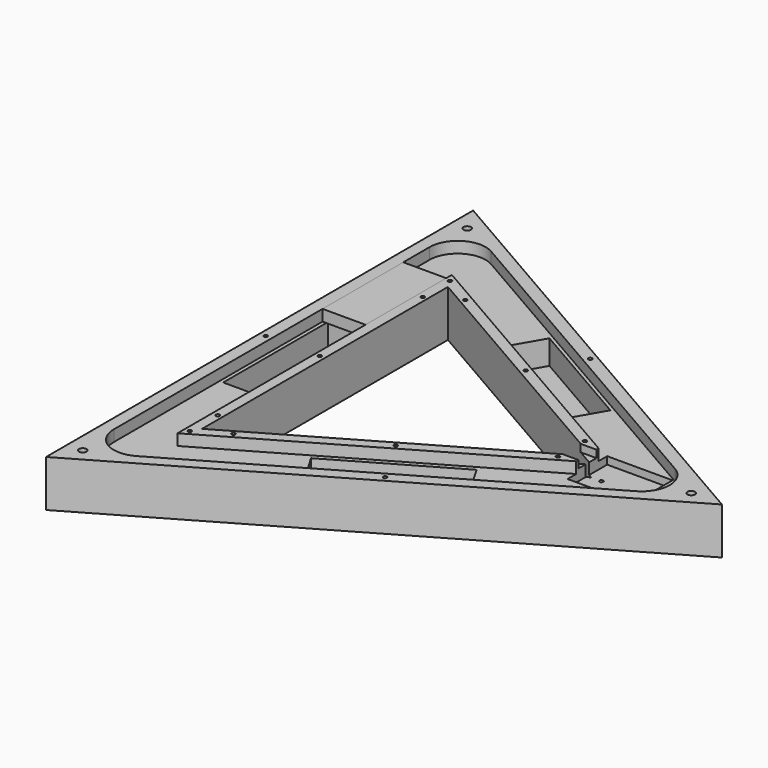
from build123d import *

# Parameters (mm, degrees)
BOX005_W               = 23
BOX005_H               = 54
BOX005_DEPTH           = 6
PRISM003_DEPTH         = 6
PRISM002_DEPTH         = 6
BOX004_W               = 10
BOX004_H               = 12
BOX004_DEPTH           = 4
BOX003_W               = 35
BOX003_H               = 26.5
BOX003_DEPTH           = 10
BOX002_W               = 70
BOX002_H               = 19
BOX002_DEPTH           = 19
BOX002_PLACEMENT_ANGLE = 30
BOX001_W               = 70
BOX001_H               = 19
BOX001_DEPTH           = 19
BOX001_PLACEMENT_ANGLE = 90
BOX_W                  = 70
BOX_H                  = 19
BOX_DEPTH              = 19
BOX_PLACEMENT_ANGLE    = 30
PRISM001_DEPTH         = 25
PRISM_DEPTH            = 25
FILLET_R               = 15
SKETCH001_R            = 2
POCKET_DEPTH           = 782.777352
POLARPATTERN_COUNT     = 3
POCKET001_DEPTH        = 3
SKETCH002_R            = 1
POCKET002_DEPTH        = 782.777352
POLARPATTERN001_COUNT  = 3
SKETCH004_R            = 1
POCKET003_DEPTH        = 782.777352
POLARPATTERN002_COUNT  = 3
POLARPATTERN003_COUNT  = 3
SKETCH005_R            = 1
POCKET004_DEPTH        = 782.777352
POLARPATTERN004_COUNT  = 3
POCKET005_DEPTH        = 22.001


with BuildPart() as box005:
    # Box005 → Box005 (new body)
    with BuildSketch(Plane(origin=(-76, 34, 13), x_dir=(1, 0, 0), z_dir=(0, 0, 1))):
        with Locations((11.5, 27)):
            Rectangle(BOX005_W, BOX005_H)
    extrude(amount=BOX005_DEPTH)


with BuildPart() as prism003:
    # Prism003 → Prism003 (new body)
    with BuildSketch(Plane.XY.offset(13)):
        Polygon((106, 0), (-53, 91.798693), (-53, -91.798693), align=None)
    extrude(amount=PRISM003_DEPTH)


with BuildPart() as cut006:
    # Prism002 → Prism002 (new body)
    with BuildSketch(Plane.XY.offset(13)):
        Polygon((152, 0), (-76, 131.635861), (-76, -131.635861), align=None)
    extrude(amount=PRISM002_DEPTH)

    # Cut006: cut Prism003
    add(prism003.part, mode=Mode.SUBTRACT)


with BuildPart() as box004:
    # Box004 → Box004 (new body)
    with BuildSketch(Plane(origin=(84, -6, 15), x_dir=(1, 0, 0), z_dir=(0, 0, 1))):
        with Locations((5, 6)):
            Rectangle(BOX004_W, BOX004_H)
    extrude(amount=BOX004_DEPTH)


with BuildPart() as box003:
    # Box003 → Box003 (new body)
    with BuildSketch(Plane(origin=(93, -13.3, 9), x_dir=(1, 0, 0), z_dir=(0, 0, 1))):
        with Locations((17.5, 13.25)):
            Rectangle(BOX003_W, BOX003_H)
    extrude(amount=BOX003_DEPTH)


with BuildPart() as box002:
    # Box002 → Box002 (new body)
    with BuildSketch(Plane.XY):
        with Locations((35, 9.5)):
            Rectangle(BOX002_W, BOX002_H)
    extrude(amount=BOX002_DEPTH)


with BuildPart() as box002_1:
    # Box002 placement: moved
    add(box002.part.moved(Location((7, -82, 0))).rotate(Axis((7, -82, 0), (0, 0, 1)), BOX002_PLACEMENT_ANGLE))


with BuildPart() as box001:
    # Box001 → Box001 (new body)
    with BuildSketch(Plane.XY):
        with Locations((35, 9.5)):
            Rectangle(BOX001_W, BOX001_H)
    extrude(amount=BOX001_DEPTH)


with BuildPart() as box001_1:
    # Box001 placement: moved
    add(box001.part.moved(Location((-55, -35, 0))).rotate(Axis((-55, -35, 0), (0, 0, 1)), BOX001_PLACEMENT_ANGLE))


with BuildPart() as box:
    # Box → Box (new body)
    with BuildSketch(Plane.XY):
        with Locations((35, 9.5)):
            Rectangle(BOX_W, BOX_H)
    extrude(amount=BOX_DEPTH)


with BuildPart() as box_1:
    # Box placement: moved
    add(box.part.moved(Location((-2, 65, 0))).rotate(Axis((-2, 65, 0), (0, 0, -1)), BOX_PLACEMENT_ANGLE))


with BuildPart() as prism001:
    # Prism001 → Prism001 (new body)
    with BuildSketch(Plane.XY.offset(-6)):
        Polygon((95, 0), (-47.5, 82.272413), (-47.5, -82.272413), align=None)
    extrude(amount=PRISM001_DEPTH)


with BuildPart() as body:
    # Prism → Prism (new body)
    with BuildSketch(Plane.XY.offset(-6)):
        Polygon((165, 0), (-82.5, 142.894192), (-82.5, -142.894192), align=None)
    extrude(amount=PRISM_DEPTH)

    # Cut: cut Prism001
    add(prism001.part, mode=Mode.SUBTRACT)

    # Cut001: cut Box
    add(box_1.part, mode=Mode.SUBTRACT)

    # Cut002: cut Box001
    add(box001_1.part, mode=Mode.SUBTRACT)

    # Cut003: cut Box002
    add(box002_1.part, mode=Mode.SUBTRACT)

    # Cut004: cut Box003
    add(box003.part, mode=Mode.SUBTRACT)

    # Cut005: cut Box004
    add(box004.part, mode=Mode.SUBTRACT)

    # Cut007: cut Cut006
    add(cut006.part, mode=Mode.SUBTRACT)

    # Fillet
    fillet_edges = [body.edges().sort_by_distance(p)[0] for p in [
        (152, 0, 16),
        (-76, 131.635861, 16),
        (-76, -131.635861, 16),
    ]]
    fillet(fillet_edges, radius=FILLET_R)

    # Sketch001 (on Face1 of BaseFeature) → Pocket (cut, through all)
    with BuildSketch(Plane.XY.offset(19)):
        with Locations((148.549835, 0)):
            Circle(SKETCH001_R)
    pocket = extrude(amount=-POCKET_DEPTH, mode=Mode.SUBTRACT)

    # PolarPattern: Pocket ×3 about axis
    polarpattern_axis = Axis((0, 0, 19), (0, 0, 1))
    for i in range(1, POLARPATTERN_COUNT):
        add(pocket.rotate(polarpattern_axis, i * 360 / POLARPATTERN_COUNT), mode=Mode.SUBTRACT)

    # Sketch003 (on Face14 of PolarPattern) → Pocket001 (cut)
    with BuildSketch(Plane(origin=(0, 0, -6), x_dir=(1, 0, 0), z_dir=(0, 0, -1))):
        Polygon((-70.5, 122.109582), (141, 0), (-70.5, -122.109582), align=None)
        Polygon((-59.5, -103.057023), (-59.5, 103.057023), (119, 0), align=None, mode=Mode.SUBTRACT)
    extrude(amount=-POCKET001_DEPTH, mode=Mode.SUBTRACT)

    # Sketch002 (on Face39 of PolarPattern) → Pocket002 (cut, through all)
    with BuildSketch(Plane.XY.offset(19)):
        with Locations((-50.25, 0)):
            Circle(SKETCH002_R)
        with Locations((-50.25, 87.035553)):
            Circle(SKETCH002_R)
    pocket002 = extrude(amount=-POCKET002_DEPTH, mode=Mode.SUBTRACT)

    # PolarPattern001: Pocket002 ×3 about axis
    polarpattern001_axis = Axis((0, 0, 19), (0, 0, 1))
    for i in range(1, POLARPATTERN001_COUNT):
        add(pocket002.rotate(polarpattern001_axis, i * 360 / POLARPATTERN001_COUNT), mode=Mode.SUBTRACT)

    # Sketch004 (on Face40 of PolarPattern001) → Pocket003 (cut, through all)
    with BuildSketch(Plane.XY.offset(19)):
        with Locations((84.411543, 9)):
            Circle(SKETCH004_R)
        with Locations((84.411543, -9)):
            Circle(SKETCH004_R)
    pocket003 = extrude(amount=-POCKET003_DEPTH, mode=Mode.SUBTRACT)

    # PolarPattern002: Pocket003 ×3 about axis
    polarpattern002_axis = Axis((0, 0, 19), (0, 0, 1))
    for i in range(1, POLARPATTERN002_COUNT):
        add(pocket003.rotate(polarpattern002_axis, i * 360 / POLARPATTERN002_COUNT), mode=Mode.SUBTRACT)

    # PolarPattern003: Pocket002 ×3 about axis
    polarpattern003_axis = Axis((0, 0, 19), (0, 0, 1))
    for i in range(1, POLARPATTERN003_COUNT):
        add(pocket002.rotate(polarpattern003_axis, i * 360 / POLARPATTERN003_COUNT), mode=Mode.SUBTRACT)

    # Sketch005 (on Face1 of PolarPattern003) → Pocket004 (cut, through all)
    with BuildSketch(Plane.XY.offset(19)):
        with Locations((-79.25, 0)):
            Circle(SKETCH005_R)
    pocket004 = extrude(amount=-POCKET004_DEPTH, mode=Mode.SUBTRACT)

    # PolarPattern004: Pocket004 ×3 about axis
    polarpattern004_axis = Axis((0, 0, 19), (0, 0, 1))
    for i in range(1, POLARPATTERN004_COUNT):
        add(pocket004.rotate(polarpattern004_axis, i * 360 / POLARPATTERN004_COUNT), mode=Mode.SUBTRACT)

    # Sketch006 (on Face42 of PolarPattern004) → Pocket005 (cut, through all)
    with BuildSketch(Plane(origin=(0, 0, -3), x_dir=(1, 0, 0), z_dir=(0, 0, -1))):
        with BuildLine():
            ThreePointArc((123, 1.5), (121.5, 0), (123, -1.5))
            Line((123, -1.5), (135, -1.5))
            ThreePointArc((135, -1.5), (136.5, 0), (135, 1.5))
            Line((123, 1.5), (135, 1.5))
        make_face()
    extrude(amount=-POCKET005_DEPTH, mode=Mode.SUBTRACT)


solid = Compound([box005.part, body.part])
